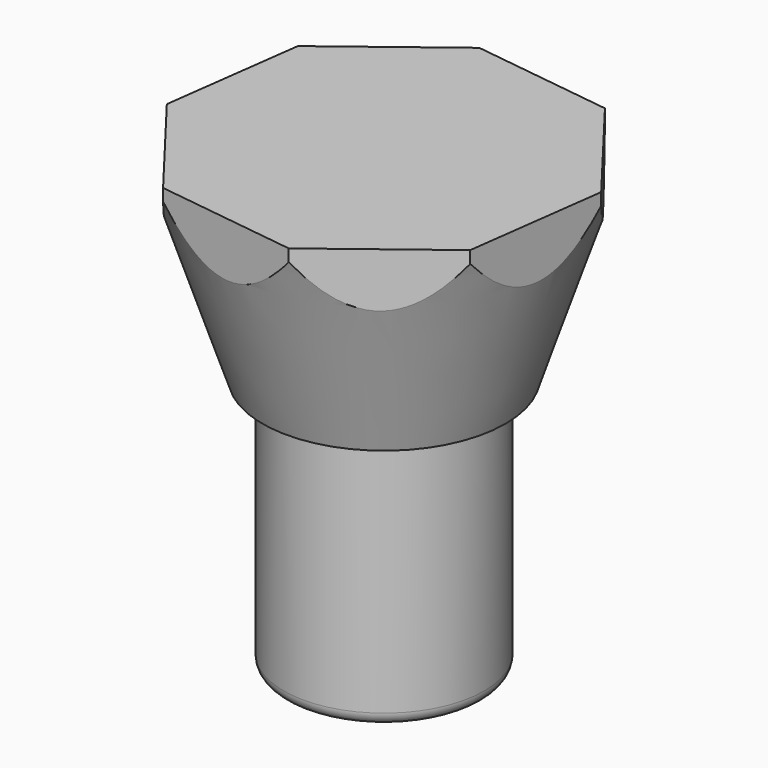
from build123d import *

# Parameters (mm, degrees)
F0_R     = 4.0005
F1_DEPTH = 10.16
F0_R_2   = 7.3848382985
F2_DEPTH = 8.1026
F3_SIZE2 = 2.54
F3_SIZE  = 7.62
F5_DEPTH = 25.4
F6_R     = 0.508


with BuildPart() as f1:
    # F0 (on Top) → F1 (new body)
    with BuildSketch(Plane.XY):
        Circle(F0_R)
    extrude(amount=-F1_DEPTH)

    # F0 (on Top) → F2 (join)
    with BuildSketch(Plane.XY):
        Circle(F0_R_2)
        Circle(F0_R, mode=Mode.SUBTRACT)
        Circle(F0_R)
    extrude(amount=F2_DEPTH)

    # F3
    f3_edges = [f1.edges().sort_by_distance(p)[0] for p in [
        (-7.384838, 0, 0),
    ]]
    f3_side = f1.faces().sort_by_distance((-7.384838, 0, 4.0513))[0]
    chamfer(f3_edges, length=F3_SIZE, length2=F3_SIZE2, reference=f3_side)

    # F4 (on face) → F5 (cut)
    with BuildSketch(Plane.XY.offset(8.1026)):
        with BuildLine():
            Line((-6.3938341113, 3.6952296345), (-1.9082015253, 7.1340453905))
            ThreePointArc((-1.9082015253, 7.1340453905), (-4.4930293098, 5.8607614109), (-6.3938341113, 3.6952296345))
        make_face()
        with BuildLine():
            Line((-1.9082015253, 7.1340453905), (3.6952296345, 6.3938341113))
            ThreePointArc((3.6952296345, 6.3938341113), (0.9671326435, 7.3212356296), (-1.9082015253, 7.1340453905))
        make_face()
        with BuildLine():
            Line((3.6952296345, 6.3938341113), (7.1340453905, 1.9082015253))
            ThreePointArc((7.1340453905, 1.9082015253), (5.8607614109, 4.4930293098), (3.6952296345, 6.3938341113))
        make_face()
        with BuildLine():
            Line((7.1340453905, 1.9082015253), (6.3938341113, -3.6952296345))
            ThreePointArc((6.3938341113, -3.6952296345), (7.1327858413, -1.9129042939), (7.3848382985, 0))
            ThreePointArc((7.3848382985, 0), (7.3218716295, 0.9623058433), (7.1340453905, 1.9082015253))
        make_face()
        with BuildLine():
            ThreePointArc((1.9082015253, -7.1340453905), (4.4930293098, -5.8607614109), (6.3938341113, -3.6952296345))
            Line((6.3938341113, -3.6952296345), (1.9082015253, -7.1340453905))
        make_face()
        with BuildLine():
            ThreePointArc((-3.6952296345, -6.3938341113), (-0.9671326435, -7.3212356296), (1.9082015253, -7.1340453905))
            Line((1.9082015253, -7.1340453905), (-3.6952296345, -6.3938341113))
        make_face()
        with BuildLine():
            ThreePointArc((-7.1340453905, -1.9082015253), (-5.8607614109, -4.4930293098), (-3.6952296345, -6.3938341113))
            Line((-3.6952296345, -6.3938341113), (-7.1340453905, -1.9082015253))
        make_face()
        with BuildLine():
            ThreePointArc((-6.3938341113, 3.6952296345), (-7.3212356296, 0.9671326435), (-7.1340453905, -1.9082015253))
            Line((-7.1340453905, -1.9082015253), (-6.3938341113, 3.6952296345))
        make_face()
    extrude(amount=-F5_DEPTH, mode=Mode.SUBTRACT)

    # F6
    f6_edges = [f1.edges().sort_by_distance(p)[0] for p in [
        (-4.0005, 0, -10.16),
    ]]
    fillet(f6_edges, radius=F6_R)


solid = f1.part
